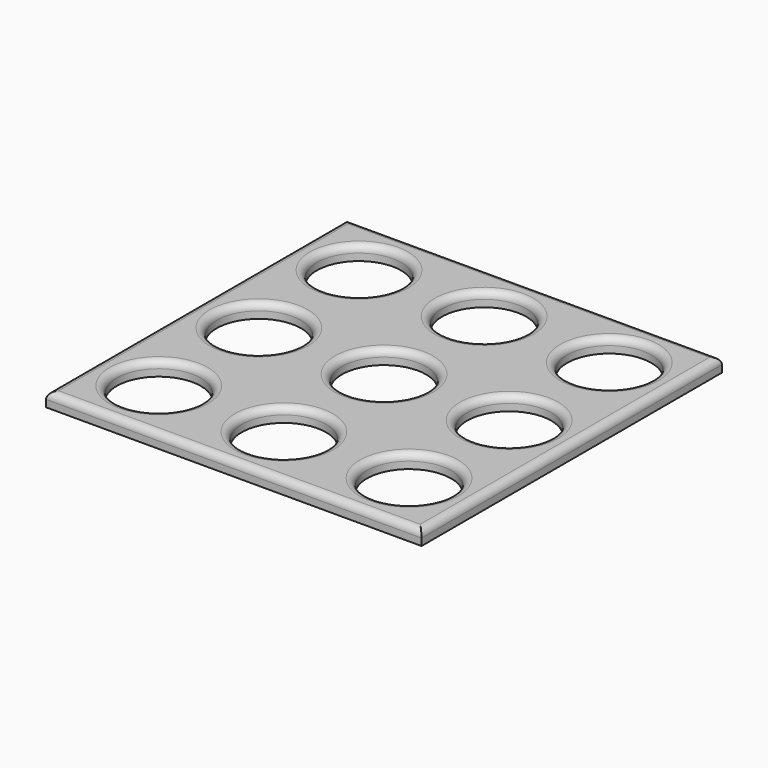
from build123d import *

# Parameters (mm, degrees)
F0_W     = 53.5
F0_H     = 53.5
F0_R     = 6
F1_DEPTH = 2
F2_R     = 1


with BuildPart() as f1:
    # F0 (on Top) → F1 (new body)
    with BuildSketch(Plane.XY):
        Rectangle(F0_W, F0_H)
        with Locations((-17.833, -17.833)):
            Circle(F0_R, mode=Mode.SUBTRACT)
        with Locations((0, -17.833)):
            Circle(F0_R, mode=Mode.SUBTRACT)
        with Locations((-17.833, 0)):
            Circle(F0_R, mode=Mode.SUBTRACT)
        Circle(F0_R, mode=Mode.SUBTRACT)
        with Locations((17.833, -17.833)):
            Circle(F0_R, mode=Mode.SUBTRACT)
        with Locations((17.833, 0)):
            Circle(F0_R, mode=Mode.SUBTRACT)
        with Locations((-17.833, 17.833)):
            Circle(F0_R, mode=Mode.SUBTRACT)
        with Locations((0, 17.833)):
            Circle(F0_R, mode=Mode.SUBTRACT)
        with Locations((17.833, 17.833)):
            Circle(F0_R, mode=Mode.SUBTRACT)
    extrude(amount=F1_DEPTH)

    # F2
    f2_edges = [f1.edges().sort_by_distance(p)[0] for p in [
        (26.75, 0, 2),
        (0, 26.75, 2),
        (-26.75, 0, 2),
        (0, -26.75, 2),
        (-23.833, -17.833, 2),
        (-6, -17.833, 2),
        (-23.833, 0, 2),
        (-6, 0, 2),
        (11.833, -17.833, 2),
        (11.833, 0, 2),
        (-23.833, 17.833, 2),
        (-6, 17.833, 2),
        (11.833, 17.833, 2),
    ]]
    fillet(f2_edges, radius=F2_R)


solid = f1.part
